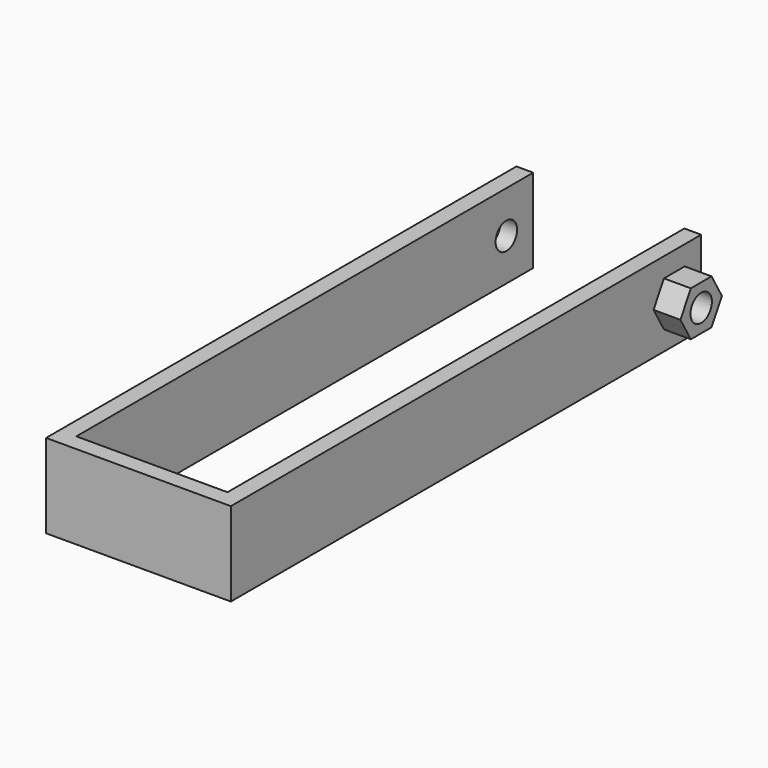
from build123d import *

# Parameters (mm, degrees)
F1_DEPTH = 25
F2_R     = 4
F3_DEPTH = 132.5
F4_R     = 4
F4_R_2   = 3.9797420395
F5_DEPTH = 8


with BuildPart() as f1:
    # F0 (on Top) → F1 (new body)
    with BuildSketch(Plane.XY):
        Polygon((45, 0), (0, 0), (0, 170), (-5, 170), (-5, -5), (50, -5), (50, 170), (45, 170), align=None)
    extrude(amount=F1_DEPTH)

    # F2 (on face) → F3 (cut)
    with BuildSketch(Plane(origin=(-5, 0, 0), x_dir=(0, -1, 0), z_dir=(-1, 0, 0))):
        with Locations((-160, 12.5)):
            Circle(F2_R)
    extrude(amount=-F3_DEPTH, mode=Mode.SUBTRACT)

    # F4 (on face) → F5 (join)
    with BuildSketch(Plane.YZ.offset(50)):
        Polygon((163.8578503757, 19.1819928586), (156.1421496243, 19.1819928586), (152.2842992487, 12.5), (156.1421496243, 5.8180071414), (163.8578503757, 5.8180071414), (167.7157007513, 12.5), align=None)
        with Locations((160, 12.5)):
            Circle(F4_R, mode=Mode.SUBTRACT)
        with Locations((160, 12.5)):
            Circle(F4_R)
        with Locations((160, 12.5)):
            Circle(F4_R_2, mode=Mode.SUBTRACT)
    extrude(amount=F5_DEPTH)


solid = f1.part
